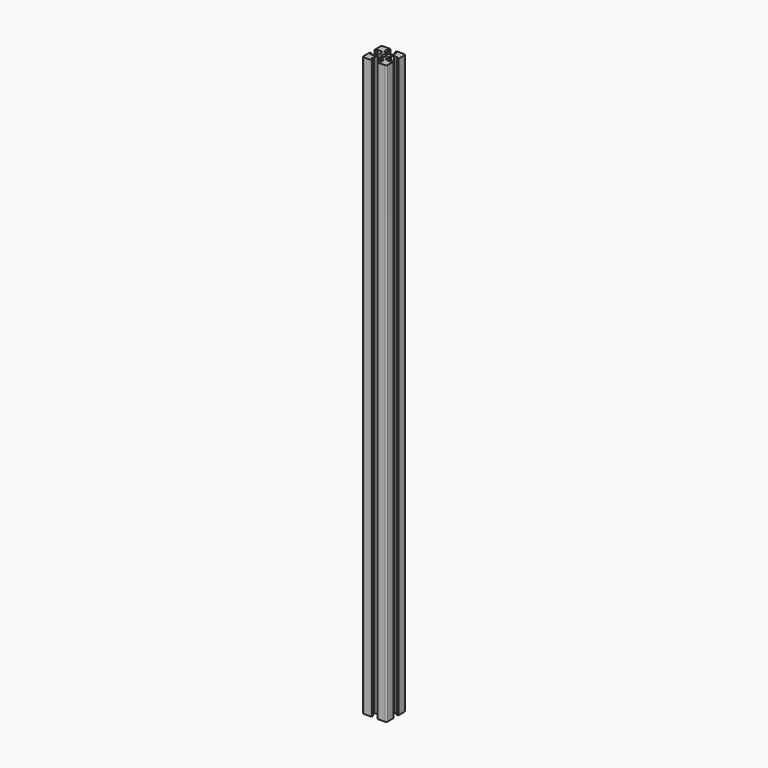
from build123d import *

# Parameters (mm, degrees)
F1_DEPTH = 360


with BuildPart() as f1:
    # F0 (on Top) → F1 (new body)
    with BuildSketch(Plane.XY):
        with BuildLine():
            ThreePointArc((-10.72619, 7.25), (-11.433297, 6.957107), (-11.72619, 6.25))
            Line((-11.72619, 6.25), (-11.72619, 1.75))
            ThreePointArc((-11.72619, 1.75), (-11.638322, 1.537868), (-11.42619, 1.45))
            Line((-11.42619, 1.45), (-10.62619, 1.45))
            Line((-10.62619, 1.45), (-10.62619, 2.6))
            Line((-10.62619, 2.6), (-8.02619, 2.6))
            Line((-8.02619, 2.6), (-7.02619, 1.6))
            Line((-7.02619, 1.6), (-7.02619, 0.269615))
            Line((-7.02619, 0.269615), (-6.72619, -0.25))
            Line((-6.72619, -0.25), (-7.02619, -0.769615))
            Line((-7.02619, -0.769615), (-7.02619, -2.1))
            Line((-7.02619, -2.1), (-8.02619, -3.1))
            Line((-8.02619, -3.1), (-10.62619, -3.1))
            Line((-10.62619, -3.1), (-10.62619, -1.95))
            Line((-10.62619, -1.95), (-11.42619, -1.95))
            ThreePointArc((-11.42619, -1.95), (-11.638322, -2.037868), (-11.72619, -2.25))
            Line((-11.72619, -2.25), (-11.72619, -6.75))
            ThreePointArc((-11.72619, -6.75), (-11.433297, -7.457107), (-10.72619, -7.75))
            Line((-10.72619, -7.75), (-6.22619, -7.75))
            ThreePointArc((-6.22619, -7.75), (-6.014058, -7.662132), (-5.92619, -7.45))
            Line((-5.92619, -7.45), (-5.92619, -6.65))
            Line((-5.92619, -6.65), (-7.07619, -6.65))
            Line((-7.07619, -6.65), (-7.07619, -4.05))
            Line((-7.07619, -4.05), (-6.07619, -3.05))
            Line((-6.07619, -3.05), (-4.745805, -3.05))
            Line((-4.745805, -3.05), (-4.22619, -2.75))
            Line((-4.22619, -2.75), (-3.706575, -3.05))
            Line((-3.706575, -3.05), (-2.37619, -3.05))
            Line((-2.37619, -3.05), (-1.37619, -4.05))
            Line((-1.37619, -4.05), (-1.37619, -6.65))
            Line((-1.37619, -6.65), (-2.52619, -6.65))
            Line((-2.52619, -6.65), (-2.52619, -7.45))
            ThreePointArc((-2.52619, -7.45), (-2.438322, -7.662132), (-2.22619, -7.75))
            Line((-2.22619, -7.75), (2.27381, -7.75))
            ThreePointArc((2.27381, -7.75), (2.980917, -7.457107), (3.27381, -6.75))
            Line((3.27381, -6.75), (3.27381, -2.25))
            ThreePointArc((3.27381, -2.25), (3.185942, -2.037868), (2.97381, -1.95))
            Line((2.97381, -1.95), (2.17381, -1.95))
            Line((2.17381, -1.95), (2.17381, -3.1))
            Line((2.17381, -3.1), (-0.42619, -3.1))
            Line((-0.42619, -3.1), (-1.42619, -2.1))
            Line((-1.42619, -2.1), (-1.42619, -0.769615))
            Line((-1.42619, -0.769615), (-1.72619, -0.25))
            Line((-1.72619, -0.25), (-1.42619, 0.269615))
            Line((-1.42619, 0.269615), (-1.42619, 1.6))
            Line((-1.42619, 1.6), (-0.42619, 2.6))
            Line((-0.42619, 2.6), (2.17381, 2.6))
            Line((2.17381, 2.6), (2.17381, 1.45))
            Line((2.17381, 1.45), (2.97381, 1.45))
            ThreePointArc((2.97381, 1.45), (3.185942, 1.537868), (3.27381, 1.75))
            Line((3.27381, 1.75), (3.27381, 6.25))
            ThreePointArc((3.27381, 6.25), (2.980917, 6.957107), (2.27381, 7.25))
            Line((2.27381, 7.25), (-2.22619, 7.25))
            ThreePointArc((-2.22619, 7.25), (-2.438322, 7.162132), (-2.52619, 6.95))
            Line((-2.52619, 6.95), (-2.52619, 6.15))
            Line((-2.52619, 6.15), (-1.37619, 6.15))
            Line((-1.37619, 6.15), (-1.37619, 3.55))
            Line((-1.37619, 3.55), (-2.37619, 2.55))
            Line((-2.37619, 2.55), (-3.706575, 2.55))
            Line((-3.706575, 2.55), (-4.22619, 2.25))
            Line((-4.22619, 2.25), (-4.745805, 2.55))
            Line((-4.745805, 2.55), (-6.07619, 2.55))
            Line((-6.07619, 2.55), (-7.07619, 3.55))
            Line((-7.07619, 3.55), (-7.07619, 6.15))
            Line((-7.07619, 6.15), (-5.92619, 6.15))
            Line((-5.92619, 6.15), (-5.92619, 6.95))
            ThreePointArc((-5.92619, 6.95), (-6.014058, 7.162132), (-6.22619, 7.25))
            Line((-6.22619, 7.25), (-10.72619, 7.25))
        make_face()
        with BuildLine():
            ThreePointArc((-4.22619, -1.5), (-5.110073, -1.133883), (-5.47619, -0.25))
            ThreePointArc((-5.47619, -0.25), (-5.110073, 0.633883), (-4.22619, 1))
            ThreePointArc((-4.22619, 1), (-3.342307, 0.633883), (-2.97619, -0.25))
            ThreePointArc((-2.97619, -0.25), (-3.342307, -1.133883), (-4.22619, -1.5))
        make_face(mode=Mode.SUBTRACT)
    extrude(amount=F1_DEPTH)


solid = f1.part
